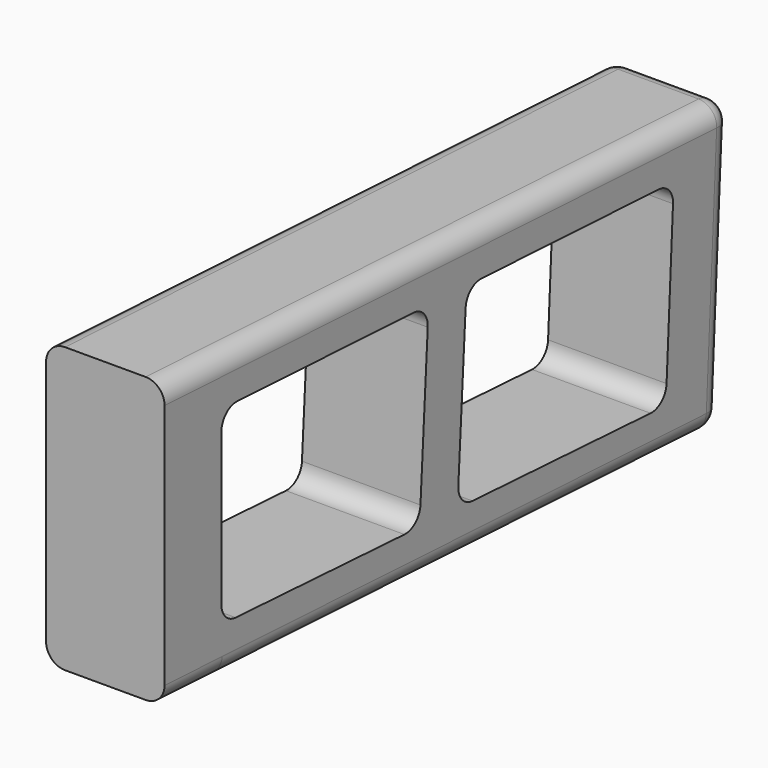
from build123d import *

# Parameters (mm, degrees)
F1_DEPTH = 31.75
F2_R     = 5.08


with BuildPart() as f1:
    # F0 (on Right) → F1 (new body)
    with BuildSketch(Plane.YZ):
        Polygon((0, 44.45), (0, 0), (19.023331, -1.007651), (186.250927, -9.86557), (190.238926, 66.23), (0, 76.2), (0, 69.85), (0, 50.8), align=None)
        Polygon((101.128548, 58.190634), (170.550367, 54.544405), (167.865593, 2.817025), (98.074822, 6.978583), align=None, mode=Mode.SUBTRACT)
        Polygon((19.023331, 11.692349), (19.023893, 62.503), (88.44603, 58.856755), (85.397658, 7.73451), align=None, mode=Mode.SUBTRACT)
    extrude(amount=F1_DEPTH)

    # F2
    f2_edges = [f1.edges().sort_by_distance(p)[0] for p in [
        (31.75, 188.244926, 28.182215),
        (0, 188.244926, 28.182215),
        (15.875, 190.238926, 66.23),
        (15.875, 186.250927, -9.86557),
        (31.75, 93.125463, -4.932785),
        (31.75, 95.119463, 71.215),
        (0, 95.119463, 71.215),
        (0, 93.125463, -4.932785),
        (15.875, 167.865593, 2.817025),
        (15.875, 170.550367, 54.544405),
        (15.875, 101.128548, 58.190634),
        (15.875, 98.074822, 6.978583),
        (15.875, 88.44603, 58.856755),
        (15.875, 85.397658, 7.73451),
        (15.875, 19.023331, 11.692349),
        (15.875, 19.023893, 62.503),
    ]]
    fillet(f2_edges, radius=F2_R)


solid = f1.part
